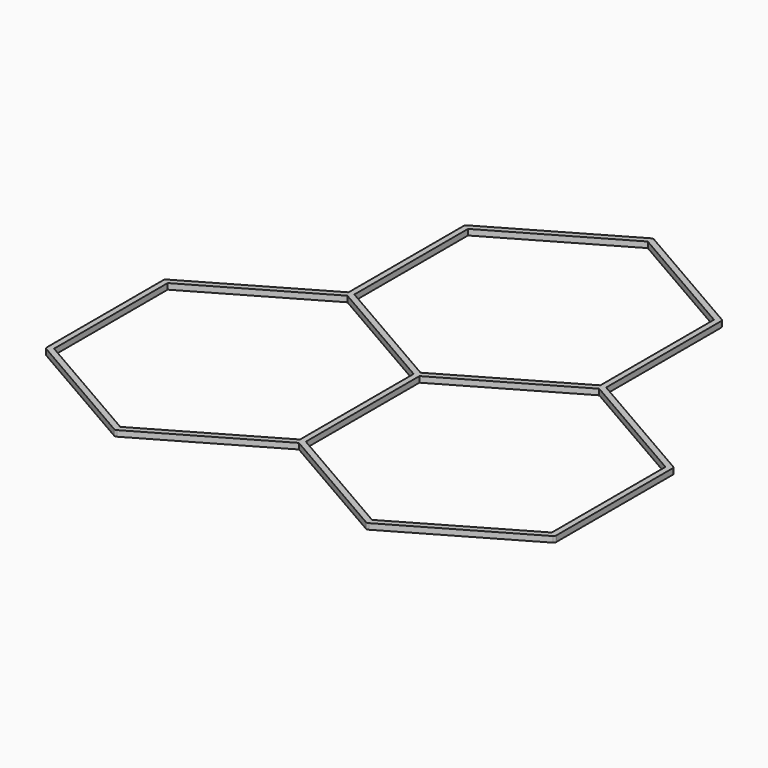
from build123d import *

# Parameters (mm, degrees)
F1_DEPTH = 0.2


with BuildPart() as f1:
    # F0 (on Top) → F1 (new body)
    with BuildSketch(Plane.XY):
        with BuildLine():
            Line((-4.2435244785, 2.55), (-0.0866025404, 4.95))
            ThreePointArc((-0.0866025404, 4.95), (-0.0965925826, 5.0258819045), (-0.05, 5.0866025404))
            Line((-0.05, 5.0866025404), (-4.3801270189, 2.5866025404))
            ThreePointArc((-4.3801270189, 2.5866025404), (-4.3042451144, 2.5965925826), (-4.2435244785, 2.55))
        make_face()
        with BuildLine():
            Line((-4.3301270189, 2.5), (-4.2435244785, 2.55))
            ThreePointArc((-4.2435244785, 2.55), (-4.3042451144, 2.5965925826), (-4.3801270189, 2.5866025404))
            ThreePointArc((-4.3801270189, 2.5866025404), (-4.4167295593, 2.55), (-4.4301270189, 2.5))
            ThreePointArc((-4.4301270189, 2.5), (-4.400837697, 2.4292893219), (-4.3301270189, 2.4))
            Line((-4.3301270189, 2.4), (-4.3301270189, 2.5))
        make_face()
        with BuildLine():
            ThreePointArc((-4.2301270189, 2.5), (-4.2335344363, 2.5258819045), (-4.2435244785, 2.55))
            Line((-4.2435244785, 2.55), (-4.3301270189, 2.5))
            Line((-4.3301270189, 2.5), (-4.3301270189, 2.4))
            ThreePointArc((-4.3301270189, 2.4), (-4.3042451144, 2.4034074174), (-4.2801270189, 2.4133974596))
            Line((-4.2801270189, 2.4133974596), (-4.2301270189, 2.4422649731))
            Line((-4.2301270189, 2.4422649731), (-4.2301270189, 2.5))
        make_face()
        with BuildLine():
            Line((-4.3301270189, -2.4), (-4.3301270189, 2.4))
            ThreePointArc((-4.3301270189, 2.4), (-4.400837697, 2.4292893219), (-4.4301270189, 2.5))
            Line((-4.4301270189, 2.5), (-4.4301270189, -2.4422649731))
            Line((-4.4301270189, -2.4422649731), (-4.3801270189, -2.4133974596))
            ThreePointArc((-4.3801270189, -2.4133974596), (-4.3560089234, -2.4034074174), (-4.3301270189, -2.4))
        make_face()
        with BuildLine():
            Line((-4.2301270189, -2.4422649731), (-4.2301270189, 2.4422649731))
            Line((-4.2301270189, 2.4422649731), (-4.2801270189, 2.4133974596))
            ThreePointArc((-4.2801270189, 2.4133974596), (-4.3042451144, 2.4034074174), (-4.3301270189, 2.4))
            Line((-4.3301270189, 2.4), (-4.3301270189, -2.4))
            ThreePointArc((-4.3301270189, -2.4), (-4.3042451144, -2.4034074174), (-4.2801270189, -2.4133974596))
            Line((-4.2801270189, -2.4133974596), (-4.2301270189, -2.4422649731))
        make_face()
        with BuildLine():
            ThreePointArc((-0.05, 4.9133974596), (-0.0707106781, 4.9292893219), (-0.0866025404, 4.95))
            Line((-0.0866025404, 4.95), (-4.2435244785, 2.55))
            ThreePointArc((-4.2435244785, 2.55), (-4.2335344363, 2.5258819045), (-4.2301270189, 2.5))
            Line((-4.2301270189, 2.5), (-4.2301270189, 2.4422649731))
            Line((-4.2301270189, 2.4422649731), (0, 4.8845299462))
            Line((0, 4.8845299462), (-0.05, 4.9133974596))
        make_face()
        with BuildLine():
            Line((0.0866025404, 4.95), (0, 5))
            Line((0, 5), (-0.0866025404, 4.95))
            ThreePointArc((-0.0866025404, 4.95), (-0.0707106781, 4.9292893219), (-0.05, 4.9133974596))
            Line((-0.05, 4.9133974596), (0, 4.8845299462))
            Line((0, 4.8845299462), (0.05, 4.9133974596))
            ThreePointArc((0.05, 4.9133974596), (0.0707106781, 4.9292893219), (0.0866025404, 4.95))
        make_face()
        with BuildLine():
            Line((-0.0866025404, 4.95), (0, 5))
            Line((0, 5), (0.0866025404, 4.95))
            ThreePointArc((0.0866025404, 4.95), (0.0965925826, 5.0258819045), (0.05, 5.0866025404))
            ThreePointArc((0.05, 5.0866025404), (0, 5.1), (-0.05, 5.0866025404))
            ThreePointArc((-0.05, 5.0866025404), (-0.0965925826, 5.0258819045), (-0.0866025404, 4.95))
        make_face()
        with BuildLine():
            ThreePointArc((0.05, 5.0866025404), (0.0965925826, 5.0258819045), (0.0866025404, 4.95))
            Line((0.0866025404, 4.95), (4.2435244785, 2.55))
            ThreePointArc((4.2435244785, 2.55), (4.3042451144, 2.5965925826), (4.3801270189, 2.5866025404))
            Line((4.3801270189, 2.5866025404), (0.05, 5.0866025404))
        make_face()
        with BuildLine():
            Line((4.2435244785, 2.55), (0.0866025404, 4.95))
            ThreePointArc((0.0866025404, 4.95), (0.0707106781, 4.9292893219), (0.05, 4.9133974596))
            Line((0.05, 4.9133974596), (0, 4.8845299462))
            Line((0, 4.8845299462), (4.2301270189, 2.4422649731))
            Line((4.2301270189, 2.4422649731), (4.2301270189, 2.5))
            ThreePointArc((4.2301270189, 2.5), (4.2335344363, 2.5258819045), (4.2435244785, 2.55))
        make_face()
        with BuildLine():
            Line((4.3301270189, 2.5), (4.2435244785, 2.55))
            ThreePointArc((4.2435244785, 2.55), (4.2335344363, 2.5258819045), (4.2301270189, 2.5))
            Line((4.2301270189, 2.5), (4.2301270189, 2.4422649731))
            Line((4.2301270189, 2.4422649731), (4.2801270189, 2.4133974596))
            ThreePointArc((4.2801270189, 2.4133974596), (4.3042451144, 2.4034074174), (4.3301270189, 2.4))
            Line((4.3301270189, 2.4), (4.3301270189, 2.5))
        make_face()
        with BuildLine():
            ThreePointArc((4.3801270189, 2.5866025404), (4.3042451144, 2.5965925826), (4.2435244785, 2.55))
            Line((4.2435244785, 2.55), (4.3301270189, 2.5))
            Line((4.3301270189, 2.5), (4.3301270189, 2.4))
            ThreePointArc((4.3301270189, 2.4), (4.400837697, 2.4292893219), (4.4301270189, 2.5))
            ThreePointArc((4.4301270189, 2.5), (4.4167295593, 2.55), (4.3801270189, 2.5866025404))
        make_face()
        with BuildLine():
            Line((4.3301270189, -2.4), (4.3301270189, 2.4))
            ThreePointArc((4.3301270189, 2.4), (4.3042451144, 2.4034074174), (4.2801270189, 2.4133974596))
            Line((4.2801270189, 2.4133974596), (4.2301270189, 2.4422649731))
            Line((4.2301270189, 2.4422649731), (4.2301270189, -2.4422649731))
            Line((4.2301270189, -2.4422649731), (4.2801270189, -2.4133974596))
            ThreePointArc((4.2801270189, -2.4133974596), (4.3042451144, -2.4034074174), (4.3301270189, -2.4))
        make_face()
        with BuildLine():
            ThreePointArc((4.4301270189, 2.5), (4.400837697, 2.4292893219), (4.3301270189, 2.4))
            Line((4.3301270189, 2.4), (4.3301270189, -2.4))
            ThreePointArc((4.3301270189, -2.4), (4.3560089234, -2.4034074174), (4.3801270189, -2.4133974596))
            Line((4.3801270189, -2.4133974596), (4.4301270189, -2.4422649731))
            Line((4.4301270189, -2.4422649731), (4.4301270189, 2.5))
        make_face()
        with BuildLine():
            Line((4.2801270189, -2.4133974596), (4.2301270189, -2.4422649731))
            Line((4.2301270189, -2.4422649731), (4.2301270189, -2.5))
            ThreePointArc((4.2301270189, -2.5), (4.2435244785, -2.45), (4.2801270189, -2.4133974596))
        make_face()
        with BuildLine():
            Line((4.4301270189, -2.5), (4.4301270189, -2.4422649731))
            Line((4.4301270189, -2.4422649731), (4.3801270189, -2.4133974596))
            ThreePointArc((4.3801270189, -2.4133974596), (4.4167295593, -2.45), (4.4301270189, -2.5))
        make_face()
        with BuildLine():
            ThreePointArc((4.3801270189, -2.4133974596), (4.3560089234, -2.4034074174), (4.3301270189, -2.4))
            Line((4.3301270189, -2.4), (4.3301270189, -2.5))
            Line((4.3301270189, -2.5), (4.4167295593, -2.55))
            ThreePointArc((4.4167295593, -2.55), (4.4267196016, -2.5258819045), (4.4301270189, -2.5))
            ThreePointArc((4.4301270189, -2.5), (4.4167295593, -2.45), (4.3801270189, -2.4133974596))
        make_face()
        with BuildLine():
            Line((4.3301270189, -2.5), (4.3301270189, -2.4))
            ThreePointArc((4.3301270189, -2.4), (4.3042451144, -2.4034074174), (4.2801270189, -2.4133974596))
            ThreePointArc((4.2801270189, -2.4133974596), (4.2435244785, -2.45), (4.2301270189, -2.5))
            ThreePointArc((4.2301270189, -2.5), (4.2335344363, -2.5258819045), (4.2435244785, -2.55))
            Line((4.2435244785, -2.55), (4.3301270189, -2.5))
        make_face()
        with BuildLine():
            ThreePointArc((4.3801270189, -2.5866025404), (4.3301270189, -2.6), (4.2801270189, -2.5866025404))
            Line((4.2801270189, -2.5866025404), (4.3301270189, -2.6154700538))
            Line((4.3301270189, -2.6154700538), (4.3801270189, -2.5866025404))
        make_face()
        with BuildLine():
            Line((4.4167295593, -2.55), (4.3301270189, -2.5))
            Line((4.3301270189, -2.5), (4.2435244785, -2.55))
            ThreePointArc((4.2435244785, -2.55), (4.2594163408, -2.5707106781), (4.2801270189, -2.5866025404))
            ThreePointArc((4.2801270189, -2.5866025404), (4.3301270189, -2.6), (4.3801270189, -2.5866025404))
            ThreePointArc((4.3801270189, -2.5866025404), (4.400837697, -2.5707106781), (4.4167295593, -2.55))
        make_face()
        with BuildLine():
            Line((4.2301270189, -2.5), (4.2301270189, -2.4422649731))
            Line((4.2301270189, -2.4422649731), (0, -4.8845299462))
            Line((0, -4.8845299462), (0.05, -4.9133974596))
            ThreePointArc((0.05, -4.9133974596), (0.0707106781, -4.9292893219), (0.0866025404, -4.95))
            Line((0.0866025404, -4.95), (4.2435244785, -2.55))
            ThreePointArc((4.2435244785, -2.55), (4.2335344363, -2.5258819045), (4.2301270189, -2.5))
        make_face()
        with BuildLine():
            ThreePointArc((4.2801270189, -2.5866025404), (4.2594163408, -2.5707106781), (4.2435244785, -2.55))
            Line((4.2435244785, -2.55), (0.0866025404, -4.95))
            ThreePointArc((0.0866025404, -4.95), (0.0965925826, -4.9741180955), (0.1, -5))
            Line((0.1, -5), (0.1, -5.0577350269))
            Line((0.1, -5.0577350269), (4.3301270189, -2.6154700538))
            Line((4.3301270189, -2.6154700538), (4.2801270189, -2.5866025404))
        make_face()
        with BuildLine():
            Line((8.5736514975, -4.95), (4.4167295593, -2.55))
            ThreePointArc((4.4167295593, -2.55), (4.400837697, -2.5707106781), (4.3801270189, -2.5866025404))
            Line((4.3801270189, -2.5866025404), (4.3301270189, -2.6154700538))
            Line((4.3301270189, -2.6154700538), (8.5602540378, -5.0577350269))
            Line((8.5602540378, -5.0577350269), (8.5602540378, -5))
            ThreePointArc((8.5602540378, -5), (8.5636614552, -4.9741180955), (8.5736514975, -4.95))
        make_face()
        with BuildLine():
            Line((8.7102540378, -4.9133974596), (4.4301270189, -2.4422649731))
            Line((4.4301270189, -2.4422649731), (4.4301270189, -2.5))
            ThreePointArc((4.4301270189, -2.5), (4.4267196016, -2.5258819045), (4.4167295593, -2.55))
            Line((4.4167295593, -2.55), (8.5736514975, -4.95))
            ThreePointArc((8.5736514975, -4.95), (8.6343721333, -4.9034074174), (8.7102540378, -4.9133974596))
        make_face()
        with BuildLine():
            Line((8.6602540378, -5), (8.5736514975, -4.95))
            ThreePointArc((8.5736514975, -4.95), (8.5636614552, -4.9741180955), (8.5602540378, -5))
            Line((8.5602540378, -5), (8.5602540378, -5.0577350269))
            Line((8.5602540378, -5.0577350269), (8.6102540378, -5.0866025404))
            ThreePointArc((8.6102540378, -5.0866025404), (8.6343721333, -5.0965925826), (8.6602540378, -5.1))
            Line((8.6602540378, -5.1), (8.6602540378, -5))
        make_face()
        with BuildLine():
            ThreePointArc((8.7602540378, -5), (8.7468565782, -4.95), (8.7102540378, -4.9133974596))
            ThreePointArc((8.7102540378, -4.9133974596), (8.6343721333, -4.9034074174), (8.5736514975, -4.95))
            Line((8.5736514975, -4.95), (8.6602540378, -5))
            Line((8.6602540378, -5), (8.6602540378, -5.1))
            ThreePointArc((8.6602540378, -5.1), (8.730964716, -5.0707106781), (8.7602540378, -5))
        make_face()
        with BuildLine():
            Line((8.7602540378, -10), (8.7602540378, -5))
            ThreePointArc((8.7602540378, -5), (8.730964716, -5.0707106781), (8.6602540378, -5.1))
            Line((8.6602540378, -5.1), (8.6602540378, -9.9))
            ThreePointArc((8.6602540378, -9.9), (8.730964716, -9.9292893219), (8.7602540378, -10))
        make_face()
        with BuildLine():
            Line((8.6602540378, -9.9), (8.6602540378, -5.1))
            ThreePointArc((8.6602540378, -5.1), (8.6343721333, -5.0965925826), (8.6102540378, -5.0866025404))
            Line((8.6102540378, -5.0866025404), (8.5602540378, -5.0577350269))
            Line((8.5602540378, -5.0577350269), (8.5602540378, -9.9422649731))
            Line((8.5602540378, -9.9422649731), (8.6102540378, -9.9133974596))
            ThreePointArc((8.6102540378, -9.9133974596), (8.6343721333, -9.9034074174), (8.6602540378, -9.9))
        make_face()
        with BuildLine():
            Line((8.6602540378, -10), (8.6602540378, -9.9))
            ThreePointArc((8.6602540378, -9.9), (8.6343721333, -9.9034074174), (8.6102540378, -9.9133974596))
            Line((8.6102540378, -9.9133974596), (8.5602540378, -9.9422649731))
            Line((8.5602540378, -9.9422649731), (8.5602540378, -10))
            ThreePointArc((8.5602540378, -10), (8.5636614552, -10.0258819045), (8.5736514975, -10.05))
            Line((8.5736514975, -10.05), (8.6602540378, -10))
        make_face()
        with BuildLine():
            ThreePointArc((8.7102540378, -10.0866025404), (8.7468565782, -10.05), (8.7602540378, -10))
            ThreePointArc((8.7602540378, -10), (8.730964716, -9.9292893219), (8.6602540378, -9.9))
            Line((8.6602540378, -9.9), (8.6602540378, -10))
            Line((8.6602540378, -10), (8.5736514975, -10.05))
            ThreePointArc((8.5736514975, -10.05), (8.6343721333, -10.0965925826), (8.7102540378, -10.0866025404))
        make_face()
        with BuildLine():
            Line((4.3801270189, -12.5866025404), (8.7102540378, -10.0866025404))
            ThreePointArc((8.7102540378, -10.0866025404), (8.6343721333, -10.0965925826), (8.5736514975, -10.05))
            Line((8.5736514975, -10.05), (4.4167295593, -12.45))
            ThreePointArc((4.4167295593, -12.45), (4.4267196016, -12.5258819045), (4.3801270189, -12.5866025404))
        make_face()
        with BuildLine():
            Line((4.4167295593, -12.45), (8.5736514975, -10.05))
            ThreePointArc((8.5736514975, -10.05), (8.5636614552, -10.0258819045), (8.5602540378, -10))
            Line((8.5602540378, -10), (8.5602540378, -9.9422649731))
            Line((8.5602540378, -9.9422649731), (4.3301270189, -12.3845299462))
            Line((4.3301270189, -12.3845299462), (4.3801270189, -12.4133974596))
            ThreePointArc((4.3801270189, -12.4133974596), (4.400837697, -12.4292893219), (4.4167295593, -12.45))
        make_face()
        with BuildLine():
            ThreePointArc((4.2801270189, -12.5866025404), (4.3301270189, -12.6), (4.3801270189, -12.5866025404))
            ThreePointArc((4.3801270189, -12.5866025404), (4.4267196016, -12.5258819045), (4.4167295593, -12.45))
            Line((4.4167295593, -12.45), (4.3301270189, -12.5))
            Line((4.3301270189, -12.5), (4.2435244785, -12.45))
            ThreePointArc((4.2435244785, -12.45), (4.2335344363, -12.5258819045), (4.2801270189, -12.5866025404))
        make_face()
        with BuildLine():
            Line((4.3301270189, -12.5), (4.4167295593, -12.45))
            ThreePointArc((4.4167295593, -12.45), (4.400837697, -12.4292893219), (4.3801270189, -12.4133974596))
            Line((4.3801270189, -12.4133974596), (4.3301270189, -12.3845299462))
            Line((4.3301270189, -12.3845299462), (4.2801270189, -12.4133974596))
            ThreePointArc((4.2801270189, -12.4133974596), (4.2594163408, -12.4292893219), (4.2435244785, -12.45))
            Line((4.2435244785, -12.45), (4.3301270189, -12.5))
        make_face()
        with BuildLine():
            Line((4.3301270189, -12.3845299462), (0.1, -9.9422649731))
            Line((0.1, -9.9422649731), (0.1, -10))
            ThreePointArc((0.1, -10), (0.0965925826, -10.0258819045), (0.0866025404, -10.05))
            Line((0.0866025404, -10.05), (4.2435244785, -12.45))
            ThreePointArc((4.2435244785, -12.45), (4.2594163408, -12.4292893219), (4.2801270189, -12.4133974596))
            Line((4.2801270189, -12.4133974596), (4.3301270189, -12.3845299462))
        make_face()
        with BuildLine():
            Line((0, -10.1154700538), (4.2801270189, -12.5866025404))
            ThreePointArc((4.2801270189, -12.5866025404), (4.2335344363, -12.5258819045), (4.2435244785, -12.45))
            Line((4.2435244785, -12.45), (0.0866025404, -10.05))
            ThreePointArc((0.0866025404, -10.05), (0.0707106781, -10.0707106781), (0.05, -10.0866025404))
            Line((0.05, -10.0866025404), (0, -10.1154700538))
        make_face()
        with BuildLine():
            Line((0.05, -4.9133974596), (0, -4.8845299462))
            Line((0, -4.8845299462), (-0.05, -4.9133974596))
            ThreePointArc((-0.05, -4.9133974596), (0, -4.9), (0.05, -4.9133974596))
        make_face()
        with BuildLine():
            ThreePointArc((-0.05, -5.0866025404), (-0.0866025404, -5.05), (-0.1, -5))
            Line((-0.1, -5), (-0.1, -5.0577350269))
            Line((-0.1, -5.0577350269), (-0.05, -5.0866025404))
        make_face()
        with BuildLine():
            Line((0.1, -5.0577350269), (0.1, -5))
            ThreePointArc((0.1, -5), (0.0866025404, -5.05), (0.05, -5.0866025404))
            Line((0.05, -5.0866025404), (0.1, -5.0577350269))
        make_face()
        with BuildLine():
            ThreePointArc((0.1, -5), (0.0965925826, -4.9741180955), (0.0866025404, -4.95))
            Line((0.0866025404, -4.95), (0, -5))
            Line((0, -5), (0, -5.1))
            ThreePointArc((0, -5.1), (0.0258819045, -5.0965925826), (0.05, -5.0866025404))
            ThreePointArc((0.05, -5.0866025404), (0.0866025404, -5.05), (0.1, -5))
        make_face()
        with BuildLine():
            Line((0, -5), (-0.0866025404, -4.95))
            ThreePointArc((-0.0866025404, -4.95), (-0.0965925826, -4.9741180955), (-0.1, -5))
            ThreePointArc((-0.1, -5), (-0.0866025404, -5.05), (-0.05, -5.0866025404))
            ThreePointArc((-0.05, -5.0866025404), (-0.0258819045, -5.0965925826), (0, -5.1))
            Line((0, -5.1), (0, -5))
        make_face()
        with BuildLine():
            ThreePointArc((0.05, -4.9133974596), (0, -4.9), (-0.05, -4.9133974596))
            ThreePointArc((-0.05, -4.9133974596), (-0.0707106781, -4.9292893219), (-0.0866025404, -4.95))
            Line((-0.0866025404, -4.95), (0, -5))
            Line((0, -5), (0.0866025404, -4.95))
            ThreePointArc((0.0866025404, -4.95), (0.0707106781, -4.9292893219), (0.05, -4.9133974596))
        make_face()
        with BuildLine():
            ThreePointArc((0.05, -5.0866025404), (0.0258819045, -5.0965925826), (0, -5.1))
            Line((0, -5.1), (0, -9.9))
            ThreePointArc((0, -9.9), (0.0258819045, -9.9034074174), (0.05, -9.9133974596))
            Line((0.05, -9.9133974596), (0.1, -9.9422649731))
            Line((0.1, -9.9422649731), (0.1, -5.0577350269))
            Line((0.1, -5.0577350269), (0.05, -5.0866025404))
        make_face()
        with BuildLine():
            Line((0, -9.9), (0, -5.1))
            ThreePointArc((0, -5.1), (-0.0258819045, -5.0965925826), (-0.05, -5.0866025404))
            Line((-0.05, -5.0866025404), (-0.1, -5.0577350269))
            Line((-0.1, -5.0577350269), (-0.1, -9.9422649731))
            Line((-0.1, -9.9422649731), (-0.05, -9.9133974596))
            ThreePointArc((-0.05, -9.9133974596), (-0.0258819045, -9.9034074174), (0, -9.9))
        make_face()
        with BuildLine():
            Line((0, -4.8845299462), (-4.2301270189, -2.4422649731))
            Line((-4.2301270189, -2.4422649731), (-4.2301270189, -2.5))
            ThreePointArc((-4.2301270189, -2.5), (-4.2335344363, -2.5258819045), (-4.2435244785, -2.55))
            Line((-4.2435244785, -2.55), (-0.0866025404, -4.95))
            ThreePointArc((-0.0866025404, -4.95), (-0.0707106781, -4.9292893219), (-0.05, -4.9133974596))
            Line((-0.05, -4.9133974596), (0, -4.8845299462))
        make_face()
        with BuildLine():
            Line((-0.0866025404, -4.95), (-4.2435244785, -2.55))
            ThreePointArc((-4.2435244785, -2.55), (-4.2594163408, -2.5707106781), (-4.2801270189, -2.5866025404))
            Line((-4.2801270189, -2.5866025404), (-4.3301270189, -2.6154700538))
            Line((-4.3301270189, -2.6154700538), (-0.1, -5.0577350269))
            Line((-0.1, -5.0577350269), (-0.1, -5))
            ThreePointArc((-0.1, -5), (-0.0965925826, -4.9741180955), (-0.0866025404, -4.95))
        make_face()
        with BuildLine():
            Line((0.1, -10), (0.1, -9.9422649731))
            Line((0.1, -9.9422649731), (0.05, -9.9133974596))
            ThreePointArc((0.05, -9.9133974596), (0.0866025404, -9.95), (0.1, -10))
        make_face()
        with BuildLine():
            Line((-0.05, -9.9133974596), (-0.1, -9.9422649731))
            Line((-0.1, -9.9422649731), (-0.1, -10))
            ThreePointArc((-0.1, -10), (-0.0866025404, -9.95), (-0.05, -9.9133974596))
        make_face()
        with BuildLine():
            Line((-0.05, -10.0866025404), (0, -10.1154700538))
            Line((0, -10.1154700538), (0.05, -10.0866025404))
            ThreePointArc((0.05, -10.0866025404), (0, -10.1), (-0.05, -10.0866025404))
        make_face()
        with BuildLine():
            ThreePointArc((-4.2435244785, -12.45), (-4.2335344363, -12.5258819045), (-4.2801270189, -12.5866025404))
            Line((-4.2801270189, -12.5866025404), (0, -10.1154700538))
            Line((0, -10.1154700538), (-0.05, -10.0866025404))
            ThreePointArc((-0.05, -10.0866025404), (-0.0707106781, -10.0707106781), (-0.0866025404, -10.05))
            Line((-0.0866025404, -10.05), (-4.2435244785, -12.45))
        make_face()
        with BuildLine():
            Line((-0.1, -10), (-0.1, -9.9422649731))
            Line((-0.1, -9.9422649731), (-4.3301270189, -12.3845299462))
            Line((-4.3301270189, -12.3845299462), (-4.2801270189, -12.4133974596))
            ThreePointArc((-4.2801270189, -12.4133974596), (-4.2594163408, -12.4292893219), (-4.2435244785, -12.45))
            Line((-4.2435244785, -12.45), (-0.0866025404, -10.05))
            ThreePointArc((-0.0866025404, -10.05), (-0.0965925826, -10.0258819045), (-0.1, -10))
        make_face()
        with BuildLine():
            Line((0, -10), (0, -9.9))
            ThreePointArc((0, -9.9), (-0.0258819045, -9.9034074174), (-0.05, -9.9133974596))
            ThreePointArc((-0.05, -9.9133974596), (-0.0866025404, -9.95), (-0.1, -10))
            ThreePointArc((-0.1, -10), (-0.0965925826, -10.0258819045), (-0.0866025404, -10.05))
            Line((-0.0866025404, -10.05), (0, -10))
        make_face()
        with BuildLine():
            ThreePointArc((0.05, -9.9133974596), (0.0258819045, -9.9034074174), (0, -9.9))
            Line((0, -9.9), (0, -10))
            Line((0, -10), (0.0866025404, -10.05))
            ThreePointArc((0.0866025404, -10.05), (0.0965925826, -10.0258819045), (0.1, -10))
            ThreePointArc((0.1, -10), (0.0866025404, -9.95), (0.05, -9.9133974596))
        make_face()
        with BuildLine():
            Line((0.0866025404, -10.05), (0, -10))
            Line((0, -10), (-0.0866025404, -10.05))
            ThreePointArc((-0.0866025404, -10.05), (-0.0707106781, -10.0707106781), (-0.05, -10.0866025404))
            ThreePointArc((-0.05, -10.0866025404), (0, -10.1), (0.05, -10.0866025404))
            ThreePointArc((0.05, -10.0866025404), (0.0707106781, -10.0707106781), (0.0866025404, -10.05))
        make_face()
        with BuildLine():
            ThreePointArc((-4.3801270189, -12.4133974596), (-4.400837697, -12.4292893219), (-4.4167295593, -12.45))
            Line((-4.4167295593, -12.45), (-4.3301270189, -12.5))
            Line((-4.3301270189, -12.5), (-4.2435244785, -12.45))
            ThreePointArc((-4.2435244785, -12.45), (-4.2594163408, -12.4292893219), (-4.2801270189, -12.4133974596))
            Line((-4.2801270189, -12.4133974596), (-4.3301270189, -12.3845299462))
            Line((-4.3301270189, -12.3845299462), (-4.3801270189, -12.4133974596))
        make_face()
        with BuildLine():
            ThreePointArc((-4.4167295593, -12.45), (-4.4267196016, -12.5258819045), (-4.3801270189, -12.5866025404))
            ThreePointArc((-4.3801270189, -12.5866025404), (-4.3301270189, -12.6), (-4.2801270189, -12.5866025404))
            ThreePointArc((-4.2801270189, -12.5866025404), (-4.2335344363, -12.5258819045), (-4.2435244785, -12.45))
            Line((-4.2435244785, -12.45), (-4.3301270189, -12.5))
            Line((-4.3301270189, -12.5), (-4.4167295593, -12.45))
        make_face()
        with BuildLine():
            ThreePointArc((-8.5736514975, -10.05), (-8.6343721333, -10.0965925826), (-8.7102540378, -10.0866025404))
            Line((-8.7102540378, -10.0866025404), (-4.3801270189, -12.5866025404))
            ThreePointArc((-4.3801270189, -12.5866025404), (-4.4267196016, -12.5258819045), (-4.4167295593, -12.45))
            Line((-4.4167295593, -12.45), (-8.5736514975, -10.05))
        make_face()
        with BuildLine():
            ThreePointArc((-8.5602540378, -10), (-8.5636614552, -10.0258819045), (-8.5736514975, -10.05))
            Line((-8.5736514975, -10.05), (-4.4167295593, -12.45))
            ThreePointArc((-4.4167295593, -12.45), (-4.400837697, -12.4292893219), (-4.3801270189, -12.4133974596))
            Line((-4.3801270189, -12.4133974596), (-4.3301270189, -12.3845299462))
            Line((-4.3301270189, -12.3845299462), (-8.5602540378, -9.9422649731))
            Line((-8.5602540378, -9.9422649731), (-8.5602540378, -10))
        make_face()
        with BuildLine():
            ThreePointArc((-8.6102540378, -9.9133974596), (-8.6343721333, -9.9034074174), (-8.6602540378, -9.9))
            Line((-8.6602540378, -9.9), (-8.6602540378, -10))
            Line((-8.6602540378, -10), (-8.5736514975, -10.05))
            ThreePointArc((-8.5736514975, -10.05), (-8.5636614552, -10.0258819045), (-8.5602540378, -10))
            Line((-8.5602540378, -10), (-8.5602540378, -9.9422649731))
            Line((-8.5602540378, -9.9422649731), (-8.6102540378, -9.9133974596))
        make_face()
        with BuildLine():
            ThreePointArc((-8.6602540378, -9.9), (-8.730964716, -9.9292893219), (-8.7602540378, -10))
            ThreePointArc((-8.7602540378, -10), (-8.7468565782, -10.05), (-8.7102540378, -10.0866025404))
            ThreePointArc((-8.7102540378, -10.0866025404), (-8.6343721333, -10.0965925826), (-8.5736514975, -10.05))
            Line((-8.5736514975, -10.05), (-8.6602540378, -10))
            Line((-8.6602540378, -10), (-8.6602540378, -9.9))
        make_face()
        with BuildLine():
            ThreePointArc((-8.6602540378, -5.1), (-8.730964716, -5.0707106781), (-8.7602540378, -5))
            Line((-8.7602540378, -5), (-8.7602540378, -10))
            ThreePointArc((-8.7602540378, -10), (-8.730964716, -9.9292893219), (-8.6602540378, -9.9))
            Line((-8.6602540378, -9.9), (-8.6602540378, -5.1))
        make_face()
        with BuildLine():
            ThreePointArc((-8.6102540378, -5.0866025404), (-8.6343721333, -5.0965925826), (-8.6602540378, -5.1))
            Line((-8.6602540378, -5.1), (-8.6602540378, -9.9))
            ThreePointArc((-8.6602540378, -9.9), (-8.6343721333, -9.9034074174), (-8.6102540378, -9.9133974596))
            Line((-8.6102540378, -9.9133974596), (-8.5602540378, -9.9422649731))
            Line((-8.5602540378, -9.9422649731), (-8.5602540378, -5.0577350269))
            Line((-8.5602540378, -5.0577350269), (-8.6102540378, -5.0866025404))
        make_face()
        with BuildLine():
            ThreePointArc((-8.5602540378, -5), (-8.5636614552, -4.9741180955), (-8.5736514975, -4.95))
            Line((-8.5736514975, -4.95), (-8.6602540378, -5))
            Line((-8.6602540378, -5), (-8.6602540378, -5.1))
            ThreePointArc((-8.6602540378, -5.1), (-8.6343721333, -5.0965925826), (-8.6102540378, -5.0866025404))
            Line((-8.6102540378, -5.0866025404), (-8.5602540378, -5.0577350269))
            Line((-8.5602540378, -5.0577350269), (-8.5602540378, -5))
        make_face()
        with BuildLine():
            ThreePointArc((-8.5736514975, -4.95), (-8.6343721333, -4.9034074174), (-8.7102540378, -4.9133974596))
            ThreePointArc((-8.7102540378, -4.9133974596), (-8.7468565782, -4.95), (-8.7602540378, -5))
            ThreePointArc((-8.7602540378, -5), (-8.730964716, -5.0707106781), (-8.6602540378, -5.1))
            Line((-8.6602540378, -5.1), (-8.6602540378, -5))
            Line((-8.6602540378, -5), (-8.5736514975, -4.95))
        make_face()
        with BuildLine():
            Line((-4.4301270189, -2.5), (-4.4301270189, -2.4422649731))
            Line((-4.4301270189, -2.4422649731), (-8.7102540378, -4.9133974596))
            ThreePointArc((-8.7102540378, -4.9133974596), (-8.6343721333, -4.9034074174), (-8.5736514975, -4.95))
            Line((-8.5736514975, -4.95), (-4.4167295593, -2.55))
            ThreePointArc((-4.4167295593, -2.55), (-4.4267196016, -2.5258819045), (-4.4301270189, -2.5))
        make_face()
        with BuildLine():
            ThreePointArc((-4.3801270189, -2.5866025404), (-4.400837697, -2.5707106781), (-4.4167295593, -2.55))
            Line((-4.4167295593, -2.55), (-8.5736514975, -4.95))
            ThreePointArc((-8.5736514975, -4.95), (-8.5636614552, -4.9741180955), (-8.5602540378, -5))
            Line((-8.5602540378, -5), (-8.5602540378, -5.0577350269))
            Line((-8.5602540378, -5.0577350269), (-4.3301270189, -2.6154700538))
            Line((-4.3301270189, -2.6154700538), (-4.3801270189, -2.5866025404))
        make_face()
        with BuildLine():
            Line((-4.3801270189, -2.4133974596), (-4.4301270189, -2.4422649731))
            Line((-4.4301270189, -2.4422649731), (-4.4301270189, -2.5))
            ThreePointArc((-4.4301270189, -2.5), (-4.4167295593, -2.45), (-4.3801270189, -2.4133974596))
        make_face()
        with BuildLine():
            Line((-4.2301270189, -2.5), (-4.2301270189, -2.4422649731))
            Line((-4.2301270189, -2.4422649731), (-4.2801270189, -2.4133974596))
            ThreePointArc((-4.2801270189, -2.4133974596), (-4.2435244785, -2.45), (-4.2301270189, -2.5))
        make_face()
        with BuildLine():
            Line((-4.3301270189, -2.5), (-4.3301270189, -2.4))
            ThreePointArc((-4.3301270189, -2.4), (-4.3560089234, -2.4034074174), (-4.3801270189, -2.4133974596))
            ThreePointArc((-4.3801270189, -2.4133974596), (-4.4167295593, -2.45), (-4.4301270189, -2.5))
            ThreePointArc((-4.4301270189, -2.5), (-4.4267196016, -2.5258819045), (-4.4167295593, -2.55))
            Line((-4.4167295593, -2.55), (-4.3301270189, -2.5))
        make_face()
        with BuildLine():
            Line((-4.3301270189, -2.6154700538), (-4.2801270189, -2.5866025404))
            ThreePointArc((-4.2801270189, -2.5866025404), (-4.3301270189, -2.6), (-4.3801270189, -2.5866025404))
            Line((-4.3801270189, -2.5866025404), (-4.3301270189, -2.6154700538))
        make_face()
        with BuildLine():
            Line((-4.2435244785, -2.55), (-4.3301270189, -2.5))
            Line((-4.3301270189, -2.5), (-4.4167295593, -2.55))
            ThreePointArc((-4.4167295593, -2.55), (-4.400837697, -2.5707106781), (-4.3801270189, -2.5866025404))
            ThreePointArc((-4.3801270189, -2.5866025404), (-4.3301270189, -2.6), (-4.2801270189, -2.5866025404))
            ThreePointArc((-4.2801270189, -2.5866025404), (-4.2594163408, -2.5707106781), (-4.2435244785, -2.55))
        make_face()
        with BuildLine():
            ThreePointArc((-4.2801270189, -2.4133974596), (-4.3042451144, -2.4034074174), (-4.3301270189, -2.4))
            Line((-4.3301270189, -2.4), (-4.3301270189, -2.5))
            Line((-4.3301270189, -2.5), (-4.2435244785, -2.55))
            ThreePointArc((-4.2435244785, -2.55), (-4.2335344363, -2.5258819045), (-4.2301270189, -2.5))
            ThreePointArc((-4.2301270189, -2.5), (-4.2435244785, -2.45), (-4.2801270189, -2.4133974596))
        make_face()
    extrude(amount=F1_DEPTH)


solid = f1.part
